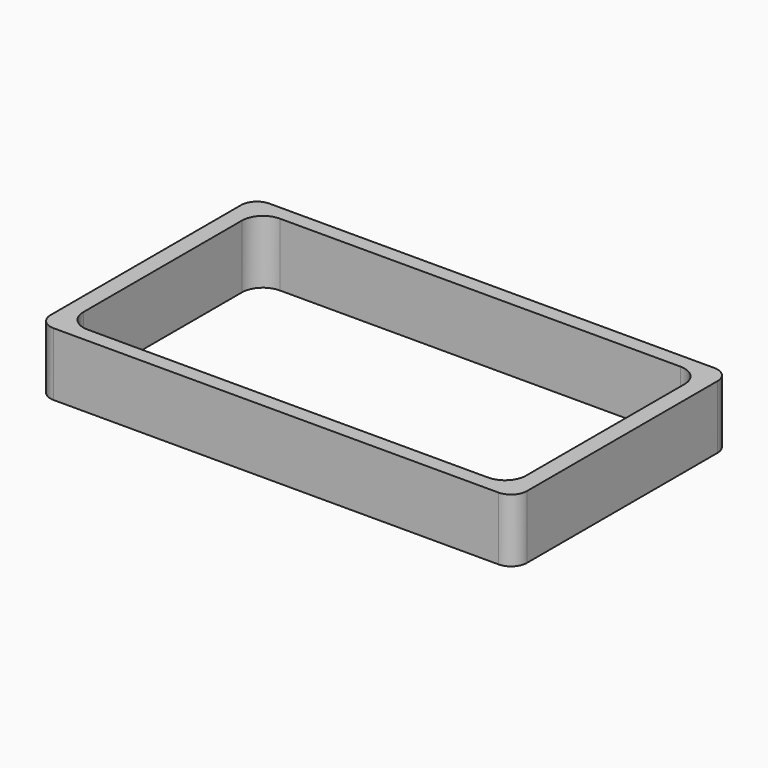
from build123d import *

# Parameters (mm, degrees)
F1_DEPTH = 7.62


with BuildPart() as f1:
    # F0 (on Top) → F1 (new body)
    with BuildSketch(Plane.XY):
        with BuildLine():
            ThreePointArc((28.702, 14.351), (28.144038, 15.698038), (26.797, 16.256))
            Line((26.797, 16.256), (-26.797, 16.256))
            ThreePointArc((-26.797, 16.256), (-28.144038, 15.698038), (-28.702, 14.351))
            Line((-28.702, 14.351), (-28.702, -14.351))
            ThreePointArc((-28.702, -14.351), (-28.144038, -15.698038), (-26.797, -16.256))
            Line((-26.797, -16.256), (26.797, -16.256))
            ThreePointArc((26.797, -16.256), (28.144038, -15.698038), (28.702, -14.351))
            Line((28.702, -14.351), (28.702, 14.351))
        make_face()
        with BuildLine():
            Line((-24.13, 14.478), (24.13, 14.478))
            ThreePointArc((24.13, 14.478), (25.926051, 13.734051), (26.67, 11.938))
            Line((26.67, 11.938), (26.67, -11.938))
            ThreePointArc((26.67, -11.938), (25.926051, -13.734051), (24.13, -14.478))
            Line((24.13, -14.478), (-24.13, -14.478))
            ThreePointArc((-24.13, -14.478), (-25.926051, -13.734051), (-26.67, -11.938))
            Line((-26.67, -11.938), (-26.67, 11.938))
            ThreePointArc((-26.67, 11.938), (-25.926051, 13.734051), (-24.13, 14.478))
        make_face(mode=Mode.SUBTRACT)
    extrude(amount=-F1_DEPTH)


solid = f1.part
